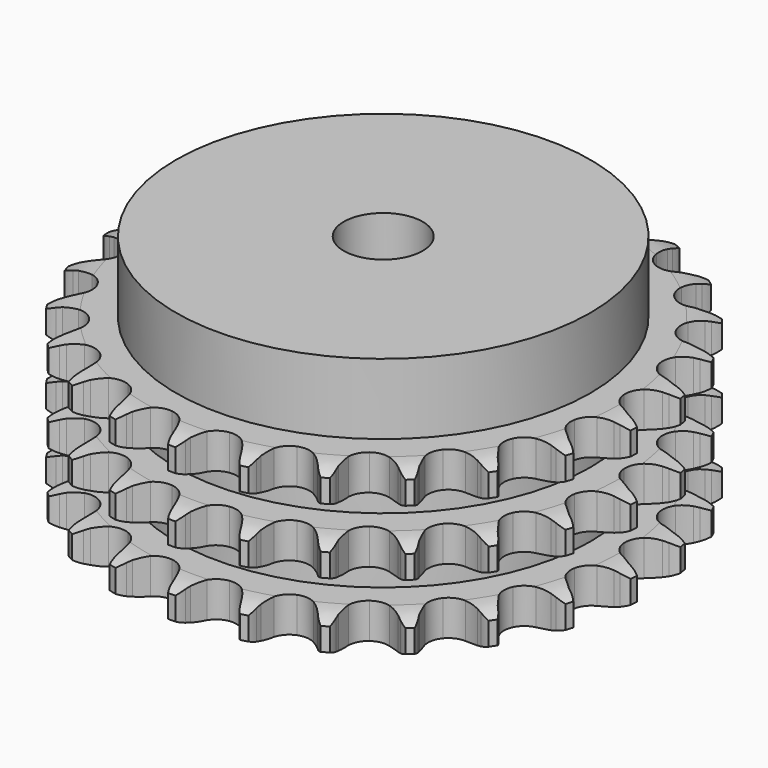
from build123d import *

# Parameters (mm, degrees)
PAD_DEPTH         = 42.1
SKETCH001_R       = 52.5
PAD001_DEPTH      = 60
SKETCH002_R       = 10
POCKET_DEPTH      = 0.001
POCKET_DEPTH_BACK = 60.001


with BuildPart() as part:
    # Sprocket → Pad (new body)
    with BuildSketch(Plane.XY):
        with BuildLine():
            ThreePointArc((-8.559046, 67.751829), (-7.283896, 66.312342), (-6.373029, 64.618691))
            Line((-6.373029, 64.618691), (-5.879113, 63.37374))
            ThreePointArc((-5.879113, 63.37374), (-5.091642, 61.728687), (-4.086072, 60.20713))
            ThreePointArc((-4.086072, 60.20713), (-2.278937, 58.720089), (0, 58.187667))
            ThreePointArc((0, 58.187667), (2.278937, 58.720089), (4.086072, 60.20713))
            ThreePointArc((4.086072, 60.20713), (5.091642, 61.728687), (5.879113, 63.37374))
            Line((5.879113, 63.37374), (6.373029, 64.618691))
            ThreePointArc((6.373029, 64.618691), (7.283896, 66.312342), (8.559046, 67.751829))
            ThreePointArc((8.559046, 67.751829), (9.43615, 66.040449), (9.897206, 64.173484))
            Line((9.897206, 64.173484), (10.065999, 62.844813))
            ThreePointArc((10.065999, 62.844813), (10.419622, 61.055607), (11.015204, 59.331777))
            ThreePointArc((11.015204, 59.331777), (12.395753, 57.442038), (14.470684, 56.359595))
            ThreePointArc((14.470684, 56.359595), (16.810432, 56.308541), (18.930604, 57.299447))
            Line((18.930604, 57.299447), (21.454818, 59.920661))
            ThreePointArc((21.454818, 59.920661), (21.83515, 60.472111), (22.242824, 61.003668))
            ThreePointArc((22.242824, 61.003668), (23.546267, 62.417587), (25.139343, 63.494732))
            ThreePointArc((25.139343, 63.494732), (25.563288, 61.618992), (25.545563, 59.696021))
            Line((25.545563, 59.696021), (25.378626, 58.367116))
            ThreePointArc((25.378626, 58.367116), (25.276182, 56.546178), (25.424354, 54.72839))
            ThreePointArc((25.424354, 54.72839), (26.291571, 52.554693), (28.032123, 50.990242))
            ThreePointArc((28.032123, 50.990242), (30.285666, 50.358921), (32.585658, 50.79143))
            Line((32.585658, 50.79143), (35.682438, 52.702547))
            ThreePointArc((35.682438, 52.702547), (36.187961, 53.142088), (36.71502, 53.55556))
            ThreePointArc((36.71502, 53.55556), (38.329141, 54.600905), (40.140042, 55.248028))
            ThreePointArc((40.140042, 55.248028), (40.08419, 53.325786), (39.588799, 51.467637))
            Line((39.588799, 51.467637), (39.096621, 50.221998))
            ThreePointArc((39.096621, 50.221998), (38.544547, 48.483745), (38.235998, 46.686217))
            ThreePointArc((38.235998, 46.686217), (38.535394, 44.365143), (39.832199, 42.416984))
            ThreePointArc((39.832199, 42.416984), (41.857941, 41.245064), (44.193234, 41.092))
            Line((44.193234, 41.092), (47.667999, 42.172938))
            ThreePointArc((47.667999, 42.172938), (48.26695, 42.472951), (48.880276, 42.742359))
            ThreePointArc((48.880276, 42.742359), (50.703653, 43.353447), (52.618595, 43.529887))
            ThreePointArc((52.618595, 43.529887), (52.086456, 41.681926), (51.144525, 40.005353))
            Line((51.144525, 40.005353), (50.358032, 38.921247))
            ThreePointArc((50.358032, 38.921247), (49.391016, 37.3749), (48.645134, 35.710578))
            ThreePointArc((48.645134, 35.710578), (48.357896, 33.387967), (49.129473, 31.178511))
            ThreePointArc((49.129473, 31.178511), (50.800127, 29.539627), (53.023988, 28.810609))
            Line((53.023988, 28.810609), (56.658404, 28.993449))
            ThreePointArc((56.658404, 28.993449), (57.313148, 29.135083), (57.974205, 29.243499))
            ThreePointArc((57.974205, 29.243499), (59.892268, 29.381933), (61.790927, 29.076603))
            ThreePointArc((61.790927, 29.076603), (60.815937, 27.419037), (59.486652, 26.029385))
            Line((59.486652, 26.029385), (58.455262, 25.174931))
            ThreePointArc((58.455262, 25.174931), (57.134067, 23.917652), (55.997718, 22.491111))
            ThreePointArc((55.997718, 22.491111), (55.141894, 20.312903), (55.33976, 17.980978))
            ThreePointArc((55.33976, 17.980978), (56.550354, 15.978108), (58.523049, 14.718941))
            Line((58.523049, 14.718941), (62.088754, 13.992194))
            ThreePointArc((62.088754, 13.992194), (62.758151, 13.966551), (63.425401, 13.907162))
            ThreePointArc((63.425401, 13.907162), (65.317632, 13.564244), (67.080709, 12.79633))
            ThreePointArc((67.080709, 12.79633), (65.72413, 11.433309), (64.091015, 10.417895))
            Line((64.091015, 10.417895), (62.879534, 9.846782))
            ThreePointArc((62.879534, 9.846782), (61.287173, 8.957571), (59.831758, 7.858446))
            ThreePointArc((59.831758, 7.858446), (58.461123, 5.961505), (58.072847, 3.653634))
            ThreePointArc((58.072847, 3.653634), (58.747314, 1.412625), (60.344891, -0.297572))
            Line((60.344891, -0.297572), (63.617839, -1.888242))
            ThreePointArc((63.617839, -1.888242), (64.259828, -2.079552), (64.891346, -2.303012))
            ThreePointArc((64.891346, -2.303012), (66.638849, -3.105736), (68.155563, -4.287985))
            ThreePointArc((68.155563, -4.287985), (66.502634, -5.270816), (64.668303, -5.84819))
            Line((64.668303, -5.84819), (63.352853, -6.100077))
            ThreePointArc((63.352853, -6.100077), (61.589381, -6.565348), (59.906349, -7.267995))
            ThreePointArc((59.906349, -7.267995), (58.107025, -8.764477), (57.157004, -10.903282))
            ThreePointArc((57.157004, -10.903282), (57.252965, -13.241618), (58.375043, -15.295387))
            Line((58.375043, -15.295387), (61.149581, -17.650032))
            ThreePointArc((61.149581, -17.650032), (61.723824, -17.994988), (62.279929, -18.368481))
            ThreePointArc((62.279929, -18.368481), (63.772902, -19.580572), (64.947952, -21.102869))
            ThreePointArc((64.947952, -21.102869), (63.102533, -21.643756), (61.182243, -21.746811))
            Line((61.182243, -21.746811), (59.845479, -21.663646))
            ThreePointArc((59.845479, -21.663646), (58.021702, -21.675742), (56.216804, -21.937761))
            ThreePointArc((56.216804, -21.937761), (54.10185, -22.939755), (52.649776, -24.775104))
            ThreePointArc((52.649776, -24.775104), (52.161201, -27.063842), (52.737275, -29.332137))
            Line((52.737275, -29.332137), (54.83907, -32.302806))
            ThreePointArc((54.83907, -32.302806), (55.309485, -32.779733), (55.755235, -33.27979))
            ThreePointArc((55.755235, -33.27979), (56.899869, -34.825088), (57.659423, -36.591782))
            ThreePointArc((57.659423, -36.591782), (55.737467, -36.65674), (53.851879, -36.279))
            Line((53.851879, -36.279), (52.577793, -35.866008))
            ThreePointArc((52.577793, -35.866008), (50.808306, -35.424169), (48.994951, -35.229097))
            ThreePointArc((48.994951, -35.229097), (46.697255, -35.673643), (44.834368, -37.090215))
            ThreePointArc((44.834368, -37.090215), (43.791958, -39.185545), (43.785831, -41.525841))
            Line((43.785831, -41.525841), (45.082818, -44.925876))
            ThreePointArc((45.082818, -44.925876), (45.419848, -45.504807), (45.727235, -46.100007))
            ThreePointArc((45.727235, -46.100007), (46.451608, -47.881416), (46.74794, -49.7815))
            ThreePointArc((46.74794, -49.7815), (44.870212, -49.366445), (43.137802, -48.531646))
            Line((43.137802, -48.531646), (42.006452, -47.814777))
            ThreePointArc((42.006452, -47.814777), (40.402437, -46.946765), (38.694564, -46.306859))
            ThreePointArc((38.694564, -46.306859), (36.358501, -46.166025), (34.201853, -47.074812))
            ThreePointArc((34.201853, -47.074812), (32.671104, -48.845076), (32.083162, -51.110324))
            Line((32.083162, -51.110324), (32.493847, -54.726088))
            ThreePointArc((32.493847, -54.726088), (32.676314, -55.370647), (32.826024, -56.023591))
            ThreePointArc((32.826024, -56.023591), (33.084621, -57.929178), (32.899112, -59.843262))
            ThreePointArc((32.899112, -59.843262), (31.183596, -58.974275), (29.713219, -57.73487))
            Line((29.713219, -57.73487), (28.79569, -56.759167))
            ThreePointArc((28.79569, -56.759167), (27.457934, -55.519524), (25.962856, -54.47499))
            ThreePointArc((25.962856, -54.47499), (23.735208, -53.757626), (21.420309, -54.101525))
            ThreePointArc((21.420309, -54.101525), (19.497405, -55.435491), (18.364589, -57.483357))
            Line((18.364589, -57.483357), (17.863169, -61.087659))
            ThreePointArc((17.863169, -61.087659), (17.879608, -61.757345), (17.862234, -62.427008))
            ThreePointArc((17.862234, -62.427008), (17.638806, -64.337037), (16.983112, -66.144852))
            ThreePointArc((16.983112, -66.144852), (15.5376, -64.876535), (14.421646, -63.310401))
            Line((14.421646, -63.310401), (13.77559, -62.137171))
            ThreePointArc((13.77559, -62.137171), (12.788149, -60.603786), (11.599806, -59.220258))
            ThreePointArc((11.599806, -59.220258), (9.620545, -57.971438), (7.292849, -57.72884))
            ThreePointArc((7.292849, -57.72884), (5.098612, -58.542691), (3.492103, -60.244499))
            Line((3.492103, -60.244499), (2.110081, -63.610867))
            ThreePointArc((2.110081, -63.610867), (1.95946, -64.263602), (1.776093, -64.907905))
            ThreePointArc((1.776093, -64.907905), (1.08468, -66.702363), (0, -68.290318))
            ThreePointArc((0, -68.290318), (-1.08468, -66.702363), (-1.776093, -64.907905))
            Line((-1.776093, -64.907905), (-2.110081, -63.610867))
            ThreePointArc((-2.110081, -63.610867), (-2.685163, -61.88009), (-3.492103, -60.244499))
            ThreePointArc((-3.492103, -60.244499), (-5.098612, -58.542691), (-7.292849, -57.72884))
            ThreePointArc((-7.292849, -57.72884), (-9.620545, -57.971438), (-11.599806, -59.220258))
            Line((-11.599806, -59.220258), (-13.77559, -62.137171))
            ThreePointArc((-13.77559, -62.137171), (-14.083808, -62.731941), (-14.421646, -63.310401))
            ThreePointArc((-14.421646, -63.310401), (-15.5376, -64.876535), (-16.983112, -66.144852))
            ThreePointArc((-16.983112, -66.144852), (-17.638806, -64.337037), (-17.862234, -62.427008))
            Line((-17.862234, -62.427008), (-17.863169, -61.087659))
            ThreePointArc((-17.863169, -61.087659), (-17.989757, -59.26824), (-18.364589, -57.483357))
            ThreePointArc((-18.364589, -57.483357), (-19.497405, -55.435491), (-21.420309, -54.101525))
            ThreePointArc((-21.420309, -54.101525), (-23.735208, -53.757626), (-25.962856, -54.47499))
            Line((-25.962856, -54.47499), (-28.79569, -56.759167))
            ThreePointArc((-28.79569, -56.759167), (-29.242139, -57.258601), (-29.713219, -57.73487))
            ThreePointArc((-29.713219, -57.73487), (-31.183596, -58.974275), (-32.899112, -59.843262))
            ThreePointArc((-32.899112, -59.843262), (-33.084621, -57.929178), (-32.826024, -56.023591))
            Line((-32.826024, -56.023591), (-32.493847, -54.726088))
            ThreePointArc((-32.493847, -54.726088), (-32.163987, -52.932349), (-32.083162, -51.110324))
            ThreePointArc((-32.083162, -51.110324), (-32.671104, -48.845076), (-34.201853, -47.074812))
            ThreePointArc((-34.201853, -47.074812), (-36.358501, -46.166025), (-38.694564, -46.306859))
            Line((-38.694564, -46.306859), (-42.006452, -47.814777))
            ThreePointArc((-42.006452, -47.814777), (-42.563078, -48.187492), (-43.137802, -48.531646))
            ThreePointArc((-43.137802, -48.531646), (-44.870212, -49.366445), (-46.74794, -49.7815))
            ThreePointArc((-46.74794, -49.7815), (-46.451608, -47.881416), (-45.727235, -46.100007))
            Line((-45.727235, -46.100007), (-45.082818, -44.925876))
            ThreePointArc((-45.082818, -44.925876), (-44.317237, -43.270524), (-43.785831, -41.525841))
            ThreePointArc((-43.785831, -41.525841), (-43.791958, -39.185545), (-44.834368, -37.090215))
            ThreePointArc((-44.834368, -37.090215), (-46.697255, -35.673643), (-48.994951, -35.229097))
            Line((-48.994951, -35.229097), (-52.577793, -35.866008))
            ThreePointArc((-52.577793, -35.866008), (-53.209623, -36.088587), (-53.851879, -36.279))
            ThreePointArc((-53.851879, -36.279), (-55.737467, -36.65674), (-57.659423, -36.591782))
            ThreePointArc((-57.659423, -36.591782), (-56.899869, -34.825088), (-55.755235, -33.27979))
            Line((-55.755235, -33.27979), (-54.83907, -32.302806))
            ThreePointArc((-54.83907, -32.302806), (-53.685871, -30.889852), (-52.737275, -29.332137))
            ThreePointArc((-52.737275, -29.332137), (-52.161201, -27.063842), (-52.649776, -24.775104))
            ThreePointArc((-52.649776, -24.775104), (-54.10185, -22.939755), (-56.216804, -21.937761))
            Line((-56.216804, -21.937761), (-59.845479, -21.663646))
            ThreePointArc((-59.845479, -21.663646), (-60.512811, -21.722102), (-61.182243, -21.746811))
            ThreePointArc((-61.182243, -21.746811), (-63.102533, -21.643756), (-64.947952, -21.102869))
            ThreePointArc((-64.947952, -21.102869), (-63.772902, -19.580572), (-62.279929, -18.368481))
            Line((-62.279929, -18.368481), (-61.149581, -17.650032))
            ThreePointArc((-61.149581, -17.650032), (-59.681224, -16.568257), (-58.375043, -15.295387))
            ThreePointArc((-58.375043, -15.295387), (-57.252965, -13.241618), (-57.157004, -10.903282))
            ThreePointArc((-57.157004, -10.903282), (-58.107025, -8.764477), (-59.906349, -7.267995))
            Line((-59.906349, -7.267995), (-63.352853, -6.100077))
            ThreePointArc((-63.352853, -6.100077), (-64.013757, -5.990738), (-64.668303, -5.84819))
            ThreePointArc((-64.668303, -5.84819), (-66.502634, -5.270816), (-68.155563, -4.287985))
            ThreePointArc((-68.155563, -4.287985), (-66.638849, -3.105736), (-64.891346, -2.303012))
            Line((-64.891346, -2.303012), (-63.617839, -1.888242))
            ThreePointArc((-63.617839, -1.888242), (-61.926587, -1.205618), (-60.344891, -0.297572))
            ThreePointArc((-60.344891, -0.297572), (-58.747314, 1.412625), (-58.072847, 3.653634))
            ThreePointArc((-58.072847, 3.653634), (-58.461123, 5.961505), (-59.831758, 7.858446))
            Line((-59.831758, 7.858446), (-62.879534, 9.846782))
            ThreePointArc((-62.879534, 9.846782), (-63.492483, 10.117046), (-64.091015, 10.417895))
            ThreePointArc((-64.091015, 10.417895), (-65.72413, 11.433309), (-67.080709, 12.79633))
            ThreePointArc((-67.080709, 12.79633), (-65.317632, 13.564244), (-63.425401, 13.907162))
            Line((-63.425401, 13.907162), (-62.088754, 13.992194))
            ThreePointArc((-62.088754, 13.992194), (-60.280874, 14.232774), (-58.523049, 14.718941))
            ThreePointArc((-58.523049, 14.718941), (-56.550354, 15.978108), (-55.33976, 17.980978))
            ThreePointArc((-55.33976, 17.980978), (-55.141894, 20.312903), (-55.997718, 22.491111))
            Line((-55.997718, 22.491111), (-58.455262, 25.174931))
            ThreePointArc((-58.455262, 25.174931), (-58.981743, 25.589139), (-59.486652, 26.029385))
            ThreePointArc((-59.486652, 26.029385), (-60.815937, 27.419037), (-61.790927, 29.076603))
            ThreePointArc((-61.790927, 29.076603), (-59.892268, 29.381933), (-57.974205, 29.243499))
            Line((-57.974205, 29.243499), (-56.658404, 28.993449))
            ThreePointArc((-56.658404, 28.993449), (-54.847493, 28.776869), (-53.023988, 28.810609))
            ThreePointArc((-53.023988, 28.810609), (-50.800127, 29.539627), (-49.129473, 31.178511))
            ThreePointArc((-49.129473, 31.178511), (-48.357896, 33.387967), (-48.645134, 35.710578))
            Line((-48.645134, 35.710578), (-50.358032, 38.921247))
            ThreePointArc((-50.358032, 38.921247), (-50.764963, 39.453372), (-51.144525, 40.005353))
            ThreePointArc((-51.144525, 40.005353), (-52.086456, 41.681926), (-52.618595, 43.529887))
            ThreePointArc((-52.618595, 43.529887), (-50.703653, 43.353447), (-48.880276, 42.742359))
            Line((-48.880276, 42.742359), (-47.667999, 42.172938))
            ThreePointArc((-47.667999, 42.172938), (-45.967841, 41.512808), (-44.193234, 41.092))
            ThreePointArc((-44.193234, 41.092), (-41.857941, 41.245064), (-39.832199, 42.416984))
            ThreePointArc((-39.832199, 42.416984), (-38.535394, 44.365143), (-38.235998, 46.686217))
            Line((-38.235998, 46.686217), (-39.096621, 50.221998))
            ThreePointArc((-39.096621, 50.221998), (-39.358434, 50.838605), (-39.588799, 51.467637))
            ThreePointArc((-39.588799, 51.467637), (-40.08419, 53.325786), (-40.140042, 55.248028))
            ThreePointArc((-40.140042, 55.248028), (-38.329141, 54.600905), (-36.71502, 53.55556))
            Line((-36.71502, 53.55556), (-35.682438, 52.702547))
            ThreePointArc((-35.682438, 52.702547), (-34.199862, 51.640344), (-32.585658, 50.79143))
            ThreePointArc((-32.585658, 50.79143), (-30.285666, 50.358921), (-28.032123, 50.990242))
            ThreePointArc((-28.032123, 50.990242), (-26.291571, 52.554693), (-25.424354, 54.72839))
            Line((-25.424354, 54.72839), (-25.378626, 58.367116))
            ThreePointArc((-25.378626, 58.367116), (-25.478869, 59.029461), (-25.545563, 59.696021))
            ThreePointArc((-25.545563, 59.696021), (-25.563288, 61.618992), (-25.139343, 63.494732))
            ThreePointArc((-25.139343, 63.494732), (-23.546267, 62.417587), (-22.242824, 61.003668))
            Line((-22.242824, 61.003668), (-21.454818, 59.920661))
            ThreePointArc((-21.454818, 59.920661), (-20.282979, 58.523127), (-18.930604, 57.299447))
            ThreePointArc((-18.930604, 57.299447), (-16.810432, 56.308541), (-14.470684, 56.359595))
            ThreePointArc((-14.470684, 56.359595), (-12.395753, 57.442038), (-11.015204, 59.331777))
            Line((-11.015204, 59.331777), (-10.065999, 62.844813))
            ThreePointArc((-10.065999, 62.844813), (-9.998374, 63.511279), (-9.897206, 64.173484))
            ThreePointArc((-9.897206, 64.173484), (-9.43615, 66.040449), (-8.559046, 67.751829))
        make_face()
    extrude(amount=PAD_DEPTH)

    # Sketch → Groove (revolve, cut)
    with BuildSketch(Plane.XZ):
        with BuildLine():
            ThreePointArc((60.025762, 0), (63.60347, 0.405129), (67, 1.6))
            Line((67, 1.6), (67, 7.4))
            ThreePointArc((67, 7.4), (63.60347, 8.594871), (60.025762, 9))
            Line((52.5, 9), (60.025762, 9))
            Line((52.5, 9), (52.5, 16.55))
            Line((52.5, 16.55), (60.025762, 16.55))
            ThreePointArc((60.025762, 16.55), (63.60347, 16.955129), (67, 18.15))
            Line((67, 23.95), (67, 18.15))
            ThreePointArc((67, 23.95), (63.60347, 25.144871), (60.025762, 25.55))
            Line((52.5, 25.55), (60.025762, 25.55))
            Line((52.5, 33.1), (52.5, 25.55))
            Line((60.025762, 33.1), (52.5, 33.1))
            ThreePointArc((60.025762, 33.1), (63.60347, 33.505129), (67, 34.7))
            Line((67, 34.7), (67, 40.5))
            ThreePointArc((67, 40.5), (63.60347, 41.694871), (60.025762, 42.1))
            Line((60.025762, 42.1), (77, 42.1))
            Line((77, 42.1), (77, 0))
            Line((60.025762, 0), (77, 0))
        make_face()
    revolve(axis=Axis((0, 0, 0), (0, 0, 1)), mode=Mode.SUBTRACT)

    # Sketch001 → Pad001 (join)
    with BuildSketch(Plane.XY):
        Circle(SKETCH001_R)
    extrude(amount=PAD001_DEPTH)

    # Sketch002 → Pocket (cut, two sides)
    with BuildSketch(Plane.XY) as pocket_sk:
        Circle(SKETCH002_R)
    extrude(amount=-POCKET_DEPTH, mode=Mode.SUBTRACT)
    extrude(pocket_sk.sketch, amount=POCKET_DEPTH_BACK, mode=Mode.SUBTRACT)


solid = part.part
